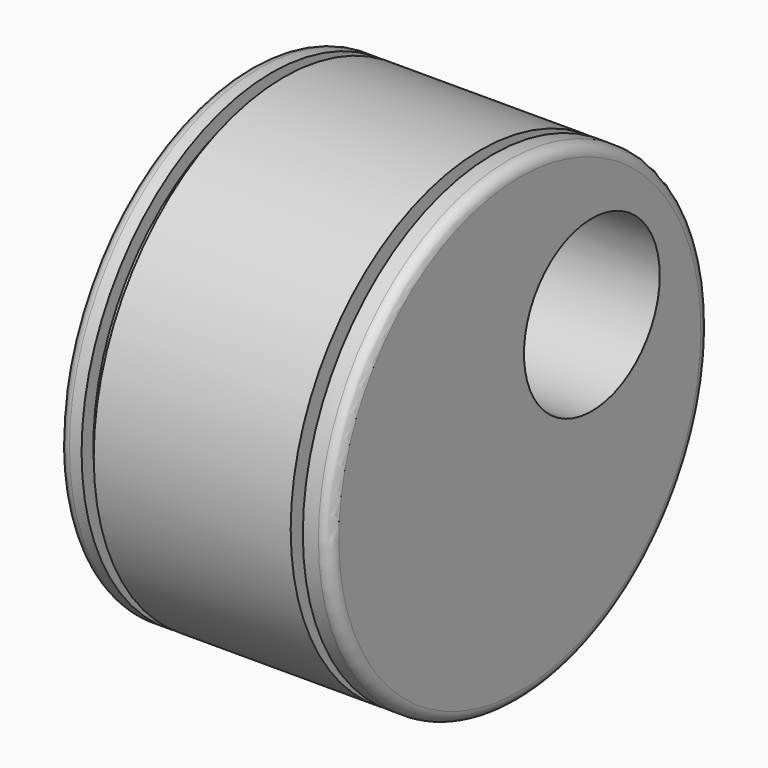
from build123d import *

# Parameters (mm, degrees)
F2_R     = 1.27
F3_R     = 9.525
F4_DEPTH = 30.481


with BuildPart() as f1:
    # F0 (on Front) → F1 (revolve)
    with BuildSketch(Plane.XZ):
        Polygon((-14.656985, 26.67), (-14.656985, 0), (15.823015, 0), (15.823015, 26.67), (12.806601, 26.67), (12.806601, 24.527449), (11.443161, 24.527449), (11.443161, 26.67), (-10.664052, 26.67), (-10.664052, 25.014395), (-12.027493, 25.014395), (-12.027493, 26.67), align=None)
    revolve(axis=Axis((0.34086, 0, 0), (1, 0, 0)))

    # F2
    f2_edges = [f1.edges().sort_by_distance(p)[0] for p in [
        (-14.656985, 0, -26.67),
        (15.823015, 0, -26.67),
    ]]
    fillet(f2_edges, radius=F2_R)

    # F3 (on face) → F4 (cut, through all)
    with BuildSketch(Plane.YZ.offset(15.823015)):
        with Locations((10.10793, 7.688937)):
            Circle(F3_R)
    extrude(amount=-F4_DEPTH, mode=Mode.SUBTRACT)


solid = f1.part
